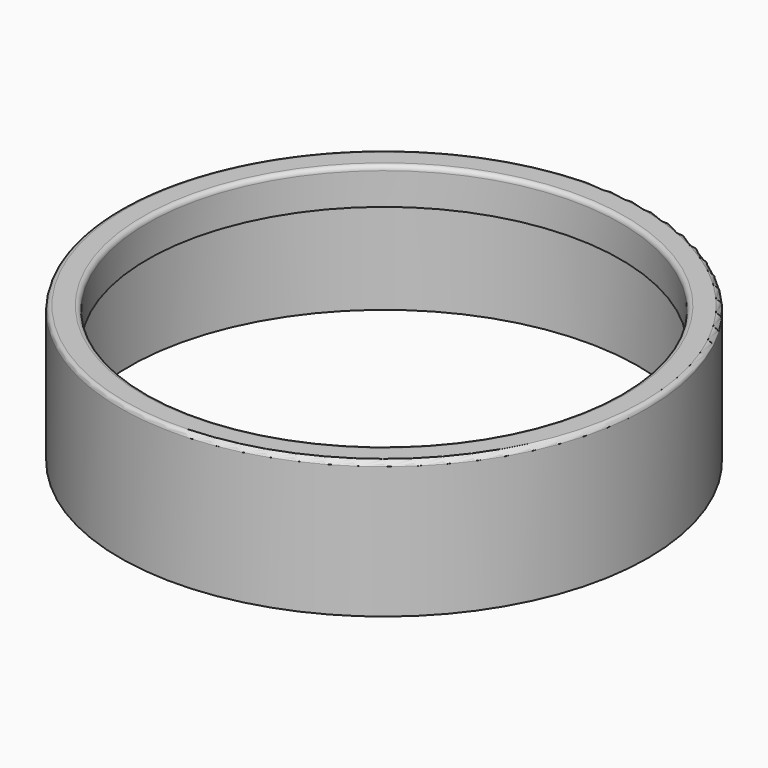
from build123d import *

# Parameters (mm, degrees)
F0_R     = 28
F0_R_2   = 26
F1_DEPTH = 4
F2_R     = 29
F2_R_2   = 28
F3_DEPTH = 15
F4_R     = 0.5


with BuildPart() as f1:
    # F0 (on Top) → F1 (new body)
    with BuildSketch(Plane.XY):
        Circle(F0_R)
        Circle(F0_R_2, mode=Mode.SUBTRACT)
    extrude(amount=F1_DEPTH)

    # F2 (on face) → F3 (join)
    with BuildSketch(Plane.XY.offset(4)):
        Circle(F2_R)
        Circle(F2_R_2, mode=Mode.SUBTRACT)
    extrude(amount=-F3_DEPTH)

    # F4
    f4_edges = [f1.edges().sort_by_distance(p)[0] for p in [
        (-26, 0, 4),
        (-29, 0, 4),
    ]]
    fillet(f4_edges, radius=F4_R)


solid = f1.part
